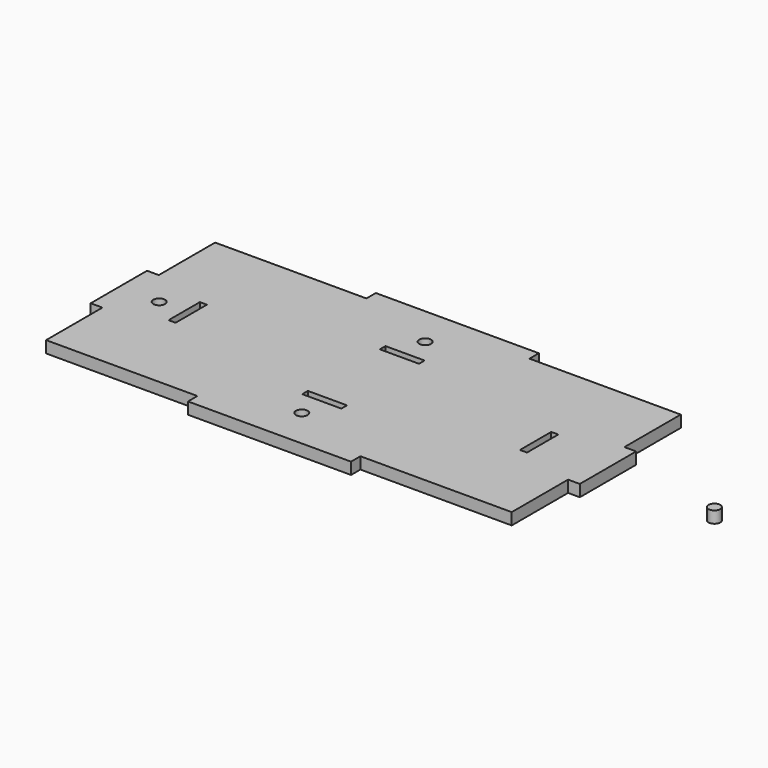
from build123d import *

# Parameters (mm, degrees)
F0_R     = 1.5
F0_W     = 10
F0_H     = 1.8
F0_W_2   = 1.8
F0_H_2   = 10
F1_DEPTH = 3


with BuildPart() as f1:
    # F0 (on Top) → F1 (new body)
    with BuildSketch(Plane.XY):
        Polygon((-20.833333, 27), (-59.5, 27), (-59.5, 9), (-62.5, 9), (-62.5, -9), (-59.5, -9), (-59.5, -27), (-20.833333, -27), (-20.833333, -30), (20.833333, -30), (20.833333, -27), (59.5, -27), (59.5, -9), (62.5, -9), (62.5, 9), (59.5, 9), (59.5, 27), (20.833333, 27), (20.833333, 30), (-20.833333, 30), align=None)
        with Locations((0, -19.7)):
            Circle(F0_R, mode=Mode.SUBTRACT)
        with Locations((0, -12.4)):
            Rectangle(F0_W, F0_H, mode=Mode.SUBTRACT)
        with Locations((-52.2, 0)):
            Circle(F0_R, mode=Mode.SUBTRACT)
        with Locations((-44.9, 0)):
            Rectangle(F0_W_2, F0_H_2, mode=Mode.SUBTRACT)
        with Locations((0, 12.4)):
            Rectangle(F0_W, F0_H, mode=Mode.SUBTRACT)
        with Locations((0, 19.7)):
            Circle(F0_R, mode=Mode.SUBTRACT)
        with Locations((44.9, 0)):
            Rectangle(F0_W_2, F0_H_2, mode=Mode.SUBTRACT)
        with Locations((89.7, 0)):
            Circle(F0_R)
    extrude(amount=F1_DEPTH)


solid = f1.part
